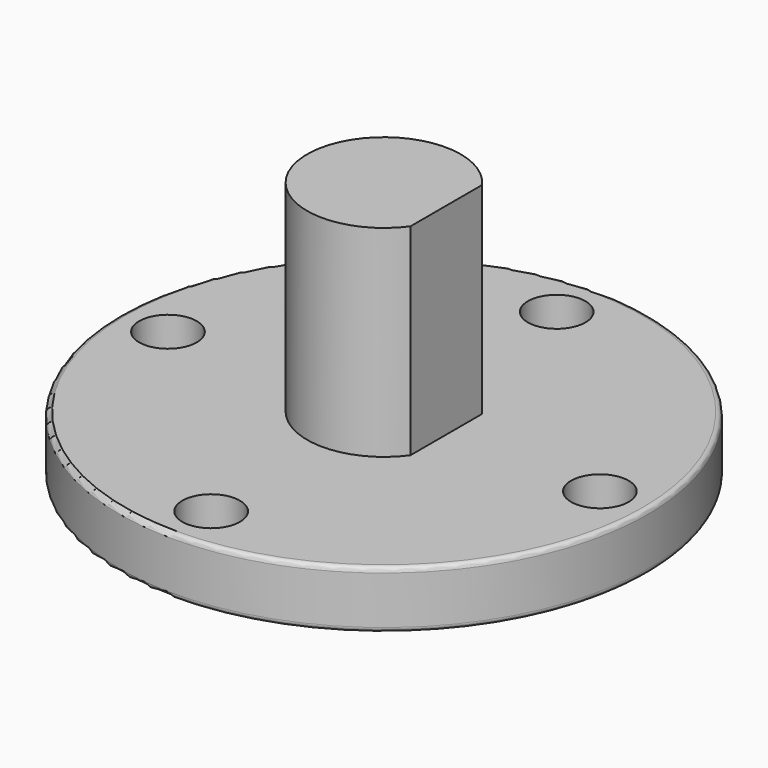
from build123d import *

# Parameters (mm, degrees)
F3_D     = 6
F4_R     = 0.5
F6_W     = 9.32738
F6_H     = 21
F7_DEPTH = 25


with BuildPart() as f1:
    # F0 (on Front) → F1 (revolve)
    with BuildSketch(Plane.XZ):
        Polygon((-7.5, -2.5), (0, -2.5), (0, 27), (-8, 27), (-8, 6), (-27.5, 6), (-27.5, 0), (-7.5, 0), align=None)
    revolve(axis=Axis((0, 0, 5.601703), (0, 0, -1)))

    # F3 (through all)
    with Locations(Plane(origin=(0, 0, 0), x_dir=(1, 0, 0), z_dir=(0, 0, -1))):
        with Locations((0, -22.5), (22.5, 0), (0, 22.5), (-22.5, 0)):
            Hole(F3_D / 2)

    # F4
    f4_edges = [f1.edges().sort_by_distance(p)[0] for p in [
        (27.5, 0, 6),
        (27.5, 0, 0),
        (7.5, 0, -2.5),
        (7.5, 0, 0),
    ]]
    fillet(f4_edges, radius=F4_R)

    # F6 (on offset) → F7 (cut)
    with BuildSketch(Plane.YZ.offset(6.5)):
        with Locations((0, 16.5)):
            Rectangle(F6_W, F6_H)
    extrude(amount=F7_DEPTH, mode=Mode.SUBTRACT)


solid = f1.part
